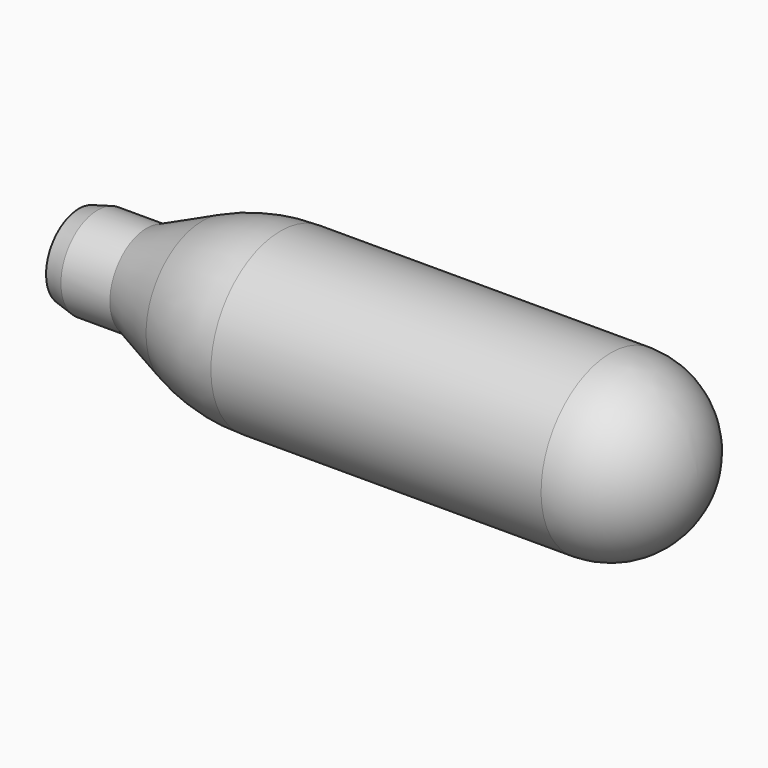
from build123d import *

# Parameters (mm, degrees)
F2_R = 9


with BuildPart() as f1:
    # F0 (on Front) → F1 (revolve)
    with BuildSketch(Plane.XZ):
        with BuildLine():
            Line((0, 4.25), (0, 0))
            Line((0, 0), (64, 0))
            Line((64, 0), (64, 9))
            Line((64, 9), (20.85148, 9))
            ThreePointArc((20.85148, 9), (16.727883, 8.570282), (12.781484, 7.299595))
            Line((12.781484, 7.299595), (7, 4.75))
            Line((7, 4.75), (1.936492, 4.75))
            Line((1.936492, 4.75), (0, 4.25))
        make_face()
    revolve(axis=Axis((32, 0, 0), (1, 0, 0)))

    # F2
    f2_edges = [f1.edges().sort_by_distance(p)[0] for p in [
        (64, 0, -9),
    ]]
    fillet(f2_edges, radius=F2_R)


solid = f1.part
